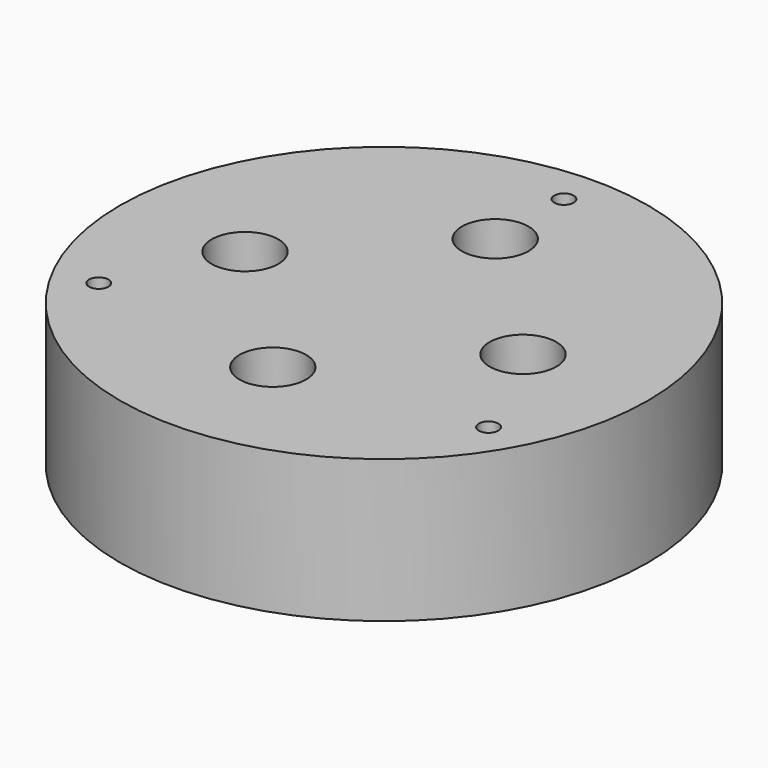
from build123d import *

# Parameters (mm, degrees)
SKETCH_R        = 47.5
SKETCH_R_2      = 1.75
PAD_DEPTH       = 25.65
SKETCH001_R     = 4.5
POCKET_DEPTH    = 7
SKETCH002_R     = 3.1
POCKET001_DEPTH = 25.651
SKETCH003_R     = 6
POCKET002_DEPTH = 7


with BuildPart() as part:
    # Sketch → Pad (new body)
    with BuildSketch(Plane.XY):
        Circle(SKETCH_R)
        with Locations((0, 40.45)):
            Circle(SKETCH_R_2, mode=Mode.SUBTRACT)
        with Locations((-35.05, -20.3)):
            Circle(SKETCH_R_2, mode=Mode.SUBTRACT)
        with Locations((35.05, -20.3)):
            Circle(SKETCH_R_2, mode=Mode.SUBTRACT)
    extrude(amount=PAD_DEPTH)

    # Sketch001 (on Face5 of Pad) → Pocket (cut)
    with BuildSketch(Plane(origin=(0, 0, 0), x_dir=(1, 0, 0), z_dir=(0, 0, -1))):
        with Locations((-35.05, 20.3)):
            Circle(SKETCH001_R)
        with Locations((35.05, 20.3)):
            Circle(SKETCH001_R)
        with Locations((0, -40.45)):
            Circle(SKETCH001_R)
    extrude(amount=-POCKET_DEPTH, mode=Mode.SUBTRACT)

    # Sketch002 (on Face2 of Pocket) → Pocket001 (cut, through all)
    with BuildSketch(Plane(origin=(0, 0, 0), x_dir=(1, 0, 0), z_dir=(0, 0, -1))):
        with Locations((0, 25)):
            Circle(SKETCH002_R)
        with Locations((25, 0)):
            Circle(SKETCH002_R)
        with Locations((-25, 0)):
            Circle(SKETCH002_R)
        with Locations((0, -25)):
            Circle(SKETCH002_R)
    extrude(amount=-POCKET001_DEPTH, mode=Mode.SUBTRACT)

    # Sketch003 (on Face3 of Pocket001) → Pocket002 (cut)
    with BuildSketch(Plane.XY.offset(25.65)):
        with Locations((0, 25)):
            Circle(SKETCH003_R)
        with Locations((0, -25)):
            Circle(SKETCH003_R)
        with Locations((25, 0)):
            Circle(SKETCH003_R)
        with Locations((-25, 0)):
            Circle(SKETCH003_R)
    extrude(amount=-POCKET002_DEPTH, mode=Mode.SUBTRACT)


solid = part.part
